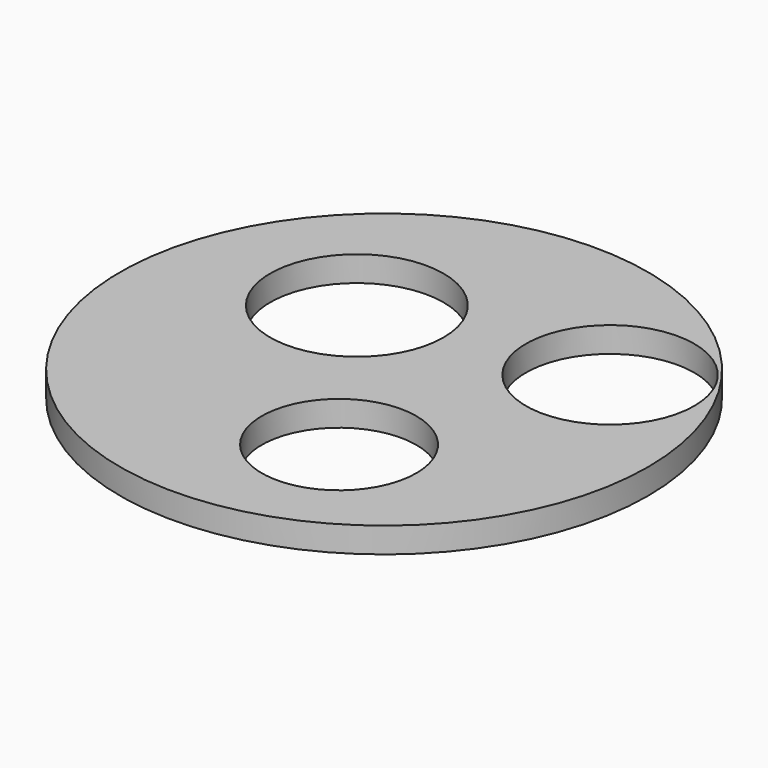
from build123d import *

# Parameters (mm, degrees)
F0_R     = 66.036766
F1_DEPTH = 6.35
F2_R     = 21.684977
F2_R_2   = 21.059805
F2_R_3   = 19.343433
F3_DEPTH = 6.351


with BuildPart() as f1:
    # F0 (on Top) → F1 (new body)
    with BuildSketch(Plane.XY):
        Circle(F0_R)
    extrude(amount=F1_DEPTH)

    # F2 (on Top) → F3 (cut, through all)
    with BuildSketch(Plane.XY):
        with Locations((-21.0861, 17.838452)):
            Circle(F2_R)
        with Locations((35.885543, 25.825907)):
            Circle(F2_R_2)
        with Locations((12.966512, -30.292187)):
            Circle(F2_R_3)
    extrude(amount=F3_DEPTH, mode=Mode.SUBTRACT)


solid = f1.part
